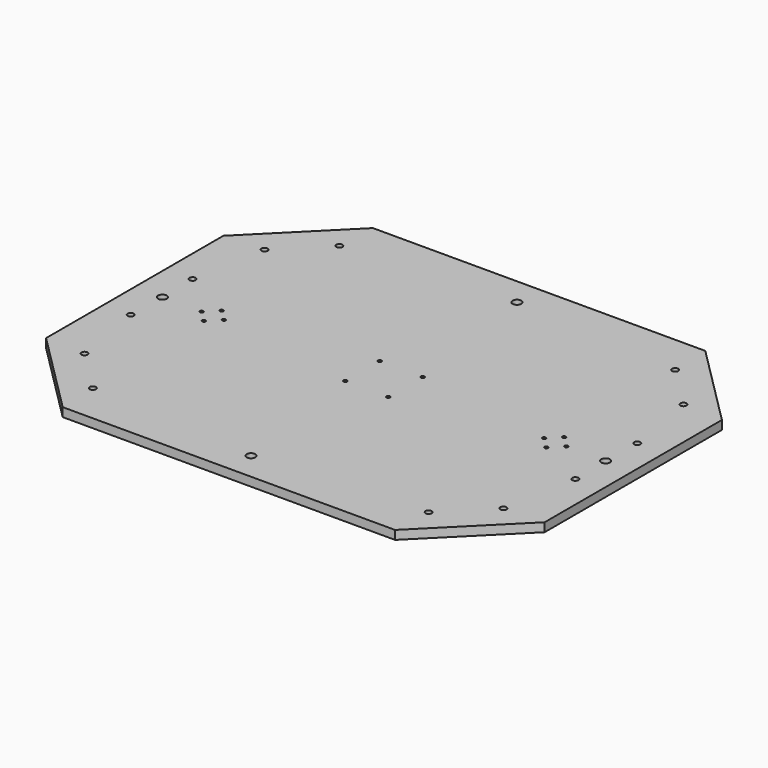
from build123d import *

# Parameters (mm, degrees)
F0_R     = 3.175
F1_DEPTH = 6.35
F3_D     = 2.5781
F3_DEPTH = 13.905
F3_TIP   = 0.774539381
F5_D     = 4.5
F6_D     = 4.5
F6_DEPTH = 12
F6_TIP   = 1.3519363928
F7_D     = 4.5
F7_DEPTH = 12
F7_TIP   = 1.3519363928
F8_D     = 2.5


with BuildPart() as f1:
    # F0 (on Top) → F1 (new body)
    with BuildSketch(Plane.XY):
        Polygon((-180, 60), (-120, 0), (120, 0), (180, 60), (180, 220), (120, 280), (-120, 280), (-180, 220), align=None)
        with Locations((0, 20)):
            Circle(F0_R, mode=Mode.SUBTRACT)
        with Locations((-160, 140)):
            Circle(F0_R, mode=Mode.SUBTRACT)
        with Locations((160, 140)):
            Circle(F0_R, mode=Mode.SUBTRACT)
        with Locations((0, 260)):
            Circle(F0_R, mode=Mode.SUBTRACT)
    extrude(amount=F1_DEPTH)

    # F3
    with Locations(Plane.XY.offset(6.35)):
        with Locations((-15.5, 155.5), (15.5, 155.5), (15.5, 124.5), (-15.5, 124.5)):
            Hole(F3_D / 2, depth=F3_DEPTH)
            with Locations((0, 0, -(F3_DEPTH + F3_TIP / 2))):  # 118° drill point
                Cone(0, F3_D / 2, F3_TIP, mode=Mode.SUBTRACT)

    # F5 (through all)
    with Locations(Plane.XY.offset(6.35)):
        with Locations((-160.553125, 167.94), (-160.553125, 112.06), (160.553125, 112.06), (160.553125, 167.94)):
            Hole(F5_D / 2)

    # F6
    with Locations(Plane.XY.offset(6.35)):
        with Locations((-151.2489651369, 221.2489651369), (-121.2489651369, 251.2489651369)):
            Hole(F6_D / 2, depth=F6_DEPTH)
            with Locations((0, 0, -(F6_DEPTH + F6_TIP / 2))):  # 118° drill point
                Cone(0, F6_D / 2, F6_TIP, mode=Mode.SUBTRACT)

    # F7
    with Locations(Plane.XY.offset(6.35)):
        with Locations((121.2489651369, 251.2489651369), (151.2489651369, 221.2489651369), (-151.2489651369, 58.7510348631), (-121.2489651369, 28.7510348631), (121.2489651369, 28.7510348631), (151.2489651369, 58.7510348631)):
            Hole(F7_D / 2, depth=F7_DEPTH)
            with Locations((0, 0, -(F7_DEPTH + F7_TIP / 2))):  # 118° drill point
                Cone(0, F7_D / 2, F7_TIP, mode=Mode.SUBTRACT)

    # F8 (through all)
    with Locations(Plane(origin=(0, 0, 0), x_dir=(1, 0, 0), z_dir=(0, 0, -1))):
        with Locations((-123.65, -148), (-115.65, -140), (-123.65, -132), (-131.65, -140), (123.65, -148), (131.65, -140), (115.65, -140), (123.65, -132)):
            Hole(F8_D / 2)


solid = f1.part
